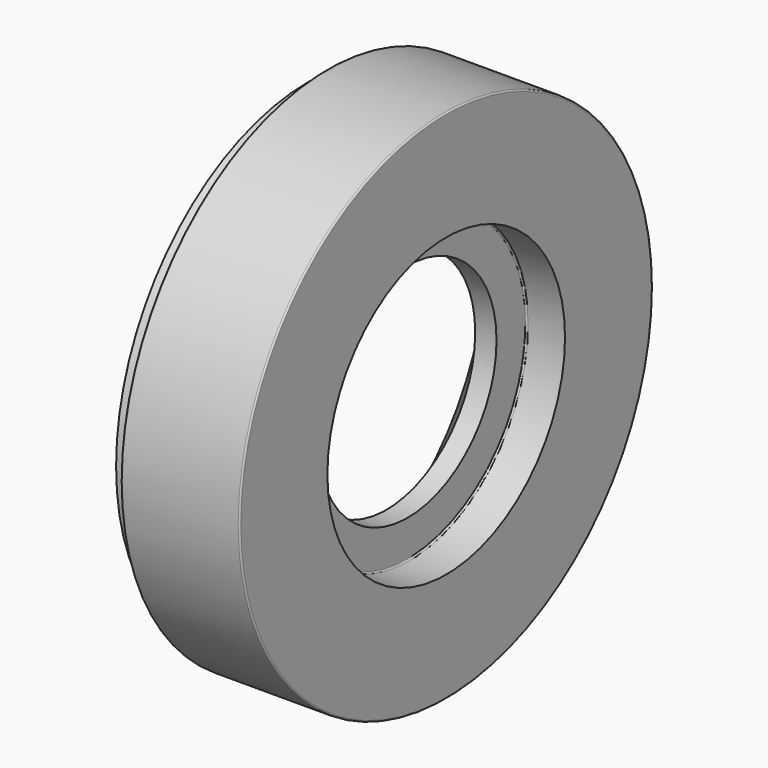
from build123d import *

# Parameters (mm, degrees)
F2_R = 0.13


with BuildPart() as f1:
    # F0 (on Top) → F1 (revolve)
    with BuildSketch(Plane.XY):
        Polygon((11.8, 12.75), (11.8, 22.16), (1.6, 22.16), (1.6, 20.675), (0, 20.675), (0, 19.05), (6.669477, 9.525), (8.5, 9.525), (8.5, 12.75), align=None)
    revolve(axis=Axis((4.418645, 0, 0), (1, 0, 0)))

    # F2
    f2_edges = [f1.edges().sort_by_distance(p)[0] for p in [
        (1.6, -20.675, 0),
        (8.5, -12.75, 0),
        (11.8, -22.16, 0),
        (1.6, -22.16, 0),
    ]]
    fillet(f2_edges, radius=F2_R)


solid = f1.part
